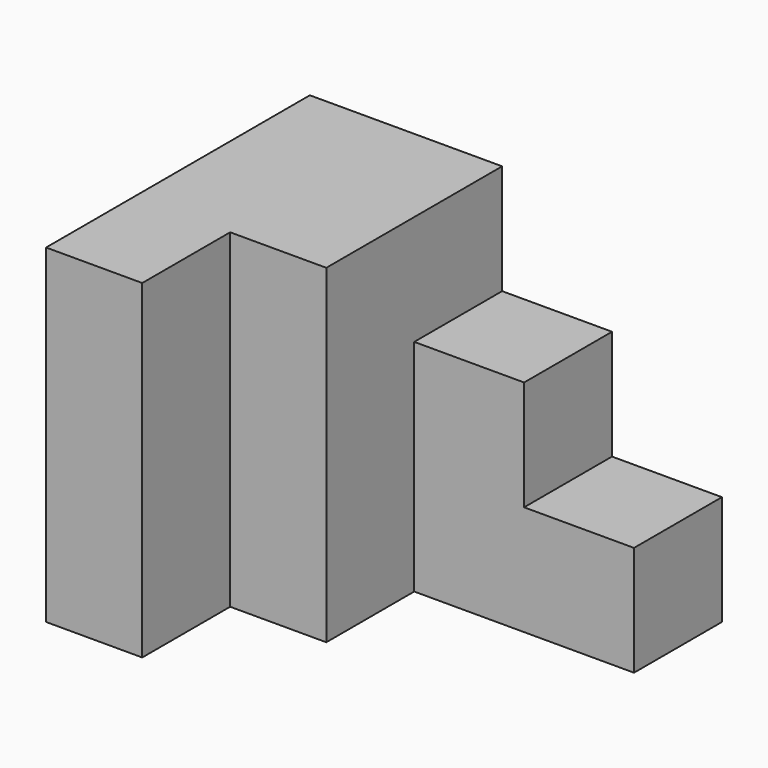
from build123d import *

# Parameters (mm, degrees)
F1_DEPTH = 24
F0_W     = 8
F0_H     = 8
F2_DEPTH = 16
F3_DEPTH = 8


with BuildPart() as f1:
    # F0 (on Top) → F1 (new body)
    with BuildSketch(Plane.XY):
        Polygon((0, 24), (0, 0), (7, 0), (7, 8), (14, 8), (14, 16), (14, 24), align=None)
    extrude(amount=F1_DEPTH)

    # F0 (on Top) → F2 (join)
    with BuildSketch(Plane.XY):
        with Locations((18, 20)):
            Rectangle(F0_W, F0_H)
    extrude(amount=F2_DEPTH)

    # F0 (on Top) → F3 (join)
    with BuildSketch(Plane.XY):
        with Locations((26, 20)):
            Rectangle(F0_W, F0_H)
    extrude(amount=F3_DEPTH)


solid = f1.part
